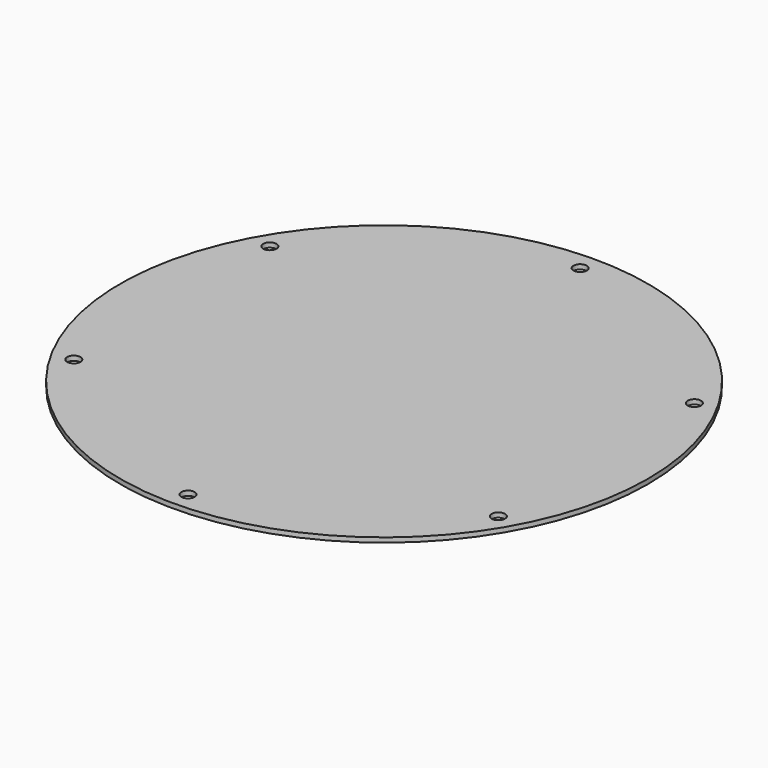
from build123d import *

# Parameters (mm, degrees)
F0_R     = 88.9
F1_DEPTH = 1.5748
F3_D     = 4.4958
F5_D     = 4.4958


with BuildPart() as f1:
    # F0 (on Top) → F1 (new body)
    with BuildSketch(Plane.XY):
        Circle(F0_R)
    extrude(amount=-F1_DEPTH)

    # F3 (through all)
    with Locations(Plane.XY):
        with Locations((0, 82.55), (-71.490402, -41.274992), (71.490395, -41.275004)):
            Hole(F3_D / 2)

    # F5 (through all)
    with Locations(Plane.XY):
        with Locations((0, -82.55), (71.490397, 41.275), (-71.490397, 41.275)):
            Hole(F5_D / 2)


solid = f1.part
